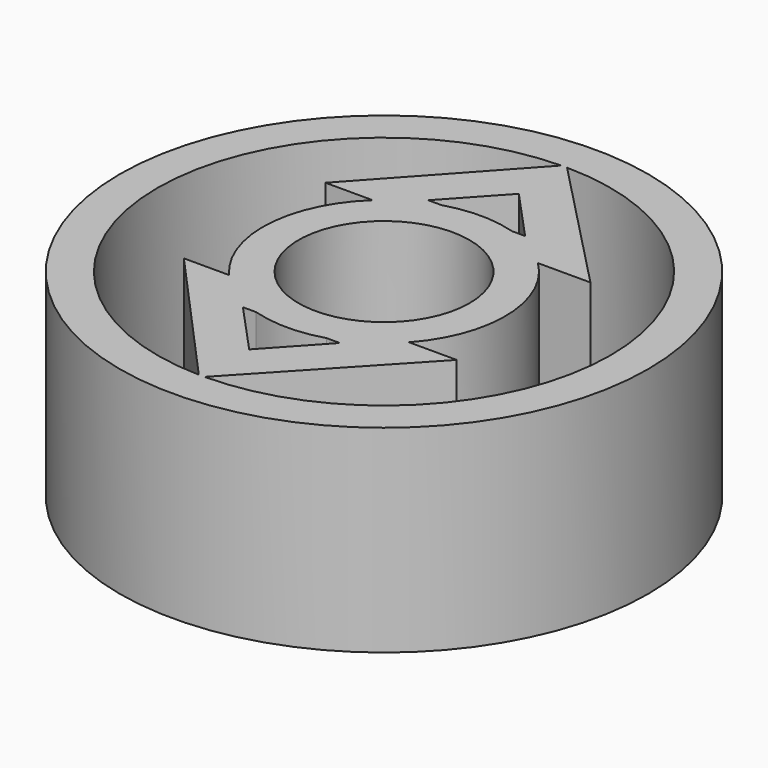
from build123d import *

# Parameters (mm, degrees)
F0_R     = 33.899089
F0_R_2   = 10.977383
F1_DEPTH = 25.4


with BuildPart() as f1:
    # F0 (on Top) → F1 (new body)
    with BuildSketch(Plane.XY):
        with Locations((35.900313, 38.462833)):
            Circle(F0_R)
        with BuildLine():
            Line((29.684071, 23.595444), (31.375829, 23.595444))
            ThreePointArc((31.375829, 23.595444), (35.900313, 22.922234), (40.424798, 23.595444))
            Line((40.424798, 23.595444), (42.116555, 23.595444))
            Line((42.116555, 23.595444), (35.900313, 16.834289))
            Line((35.900313, 16.834289), (29.684071, 23.595444))
        make_face(mode=Mode.SUBTRACT)
        with BuildLine():
            Line((35.390319, 67.539793), (19.270614, 49.856011))
            Line((19.270614, 49.856011), (25.331222, 49.856011))
            ThreePointArc((25.331222, 49.856011), (20.379015, 39.237091), (24.249848, 28.178046))
            Line((24.249848, 28.178046), (18.442286, 28.178046))
            Line((18.442286, 28.178046), (35.390319, 9.385872))
            ThreePointArc((35.390319, 9.385872), (6.81888, 38.462833), (35.390319, 67.539793))
        make_face(mode=Mode.SUBTRACT)
        with Locations((35.900313, 38.462833)):
            Circle(F0_R_2, mode=Mode.SUBTRACT)
        with BuildLine():
            ThreePointArc((36.128241, 67.543372), (64.981746, 38.462833), (36.128241, 9.382293))
            Line((36.128241, 9.382293), (53.560682, 28.047737))
            Line((53.560682, 28.047737), (47.434436, 28.047737))
            ThreePointArc((47.434436, 28.047737), (51.434076, 38.923711), (46.796669, 49.543429))
            Line((46.796669, 49.543429), (53.530753, 49.543429))
            Line((53.530753, 49.543429), (36.128241, 67.543372))
        make_face(mode=Mode.SUBTRACT)
        with BuildLine():
            ThreePointArc((40.424798, 53.330221), (35.900313, 54.003431), (31.375829, 53.330221))
            Line((31.375829, 53.330221), (29.684071, 53.330221))
            Line((29.684071, 53.330221), (35.900313, 60.091376))
            Line((35.900313, 60.091376), (42.116555, 53.330221))
            Line((42.116555, 53.330221), (40.424798, 53.330221))
        make_face(mode=Mode.SUBTRACT)
    extrude(amount=F1_DEPTH)


solid = f1.part
